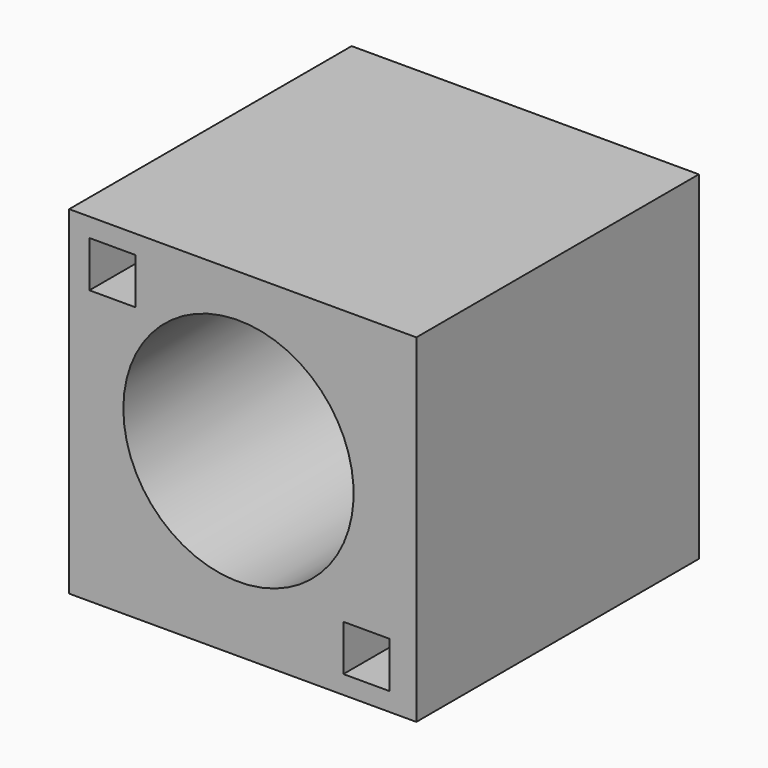
from build123d import *

# Parameters (mm, degrees)
F0_W      = 15.221721
F0_H      = 54.359732
F1_DEPTH  = 11.5
F3_D      = 7.5
F4_W      = 42.202285
F4_H      = 45.044836
F5_DEPTH  = 25
F6_W      = 6.489188
F6_H      = 15.716003
F7_DEPTH  = 14
F8_R      = 4.527333
F8_R_2    = 2.346749
F9_DEPTH  = 3
F10_W     = 1.5
F10_H     = 1.5
F11_DEPTH = 2


with BuildPart() as f1:
    # F0 (on Front) → F1 (new body)
    with BuildSketch(Plane.XZ):
        with Locations((-1.816982, -22.036255)):
            Rectangle(F0_W, F0_H)
    extrude(amount=F1_DEPTH)

    # F3 (through all)
    with Locations(Plane(origin=(0, 0, 0), x_dir=(1, 0, 0), z_dir=(0, 1, 0))):
        with Locations((0, 0)):
            Hole(F3_D / 2)

    # F4 (on Front) → F5 (cut)
    with BuildSketch(Plane.XZ):
        with Locations((0.021285, -28.405259)):
            Rectangle(F4_W, F4_H)
    extrude(amount=F5_DEPTH, mode=Mode.SUBTRACT)

    # F6 (on face) → F7 (cut)
    with BuildSketch(Plane.XZ.offset(11.5)):
        with Locations((-8.758753, -0.702533)):
            Rectangle(F6_W, F6_H)
    extrude(amount=-F7_DEPTH, mode=Mode.SUBTRACT)

    # F8 (on face) → F9 (join)
    with BuildSketch(Plane(origin=(0, 0, 0), x_dir=(-1, 0, 0), z_dir=(0, 1, 0))):
        Circle(F8_R)
        Circle(F8_R_2, mode=Mode.SUBTRACT)
    extrude(amount=-F9_DEPTH)

    # F10 (on face) → F11 (cut)
    with BuildSketch(Plane.XZ.offset(11.5)):
        with Locations((-4.104478, 3.780475)):
            Rectangle(F10_W, F10_H)
        with Locations((4.16695, -4.533809)):
            Rectangle(F10_W, F10_H)
    extrude(amount=-F11_DEPTH, mode=Mode.SUBTRACT)


solid = f1.part
